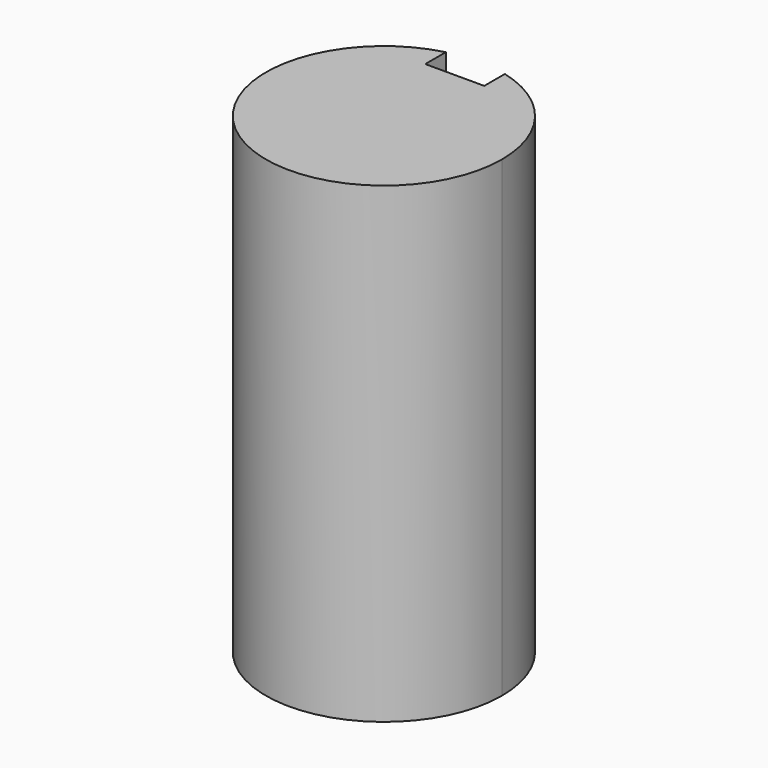
from build123d import *

# Parameters (mm, degrees)
F1_DEPTH = 25.4


with BuildPart() as f1:
    # F0 (on Top) → F1 (new body)
    with BuildSketch(Plane.XY):
        with BuildLine():
            ThreePointArc((-1.5875, 6.148361), (-3.888565, -5.020116), (6.35, 0))
            ThreePointArc((6.35, 0), (5.020116, 3.888565), (1.5875, 6.148361))
            Line((1.5875, 6.148361), (1.5875, 4.7625))
            Line((1.5875, 4.7625), (-1.5875, 4.7625))
            Line((-1.5875, 4.7625), (-1.5875, 6.148361))
        make_face()
    extrude(amount=F1_DEPTH)


solid = f1.part
